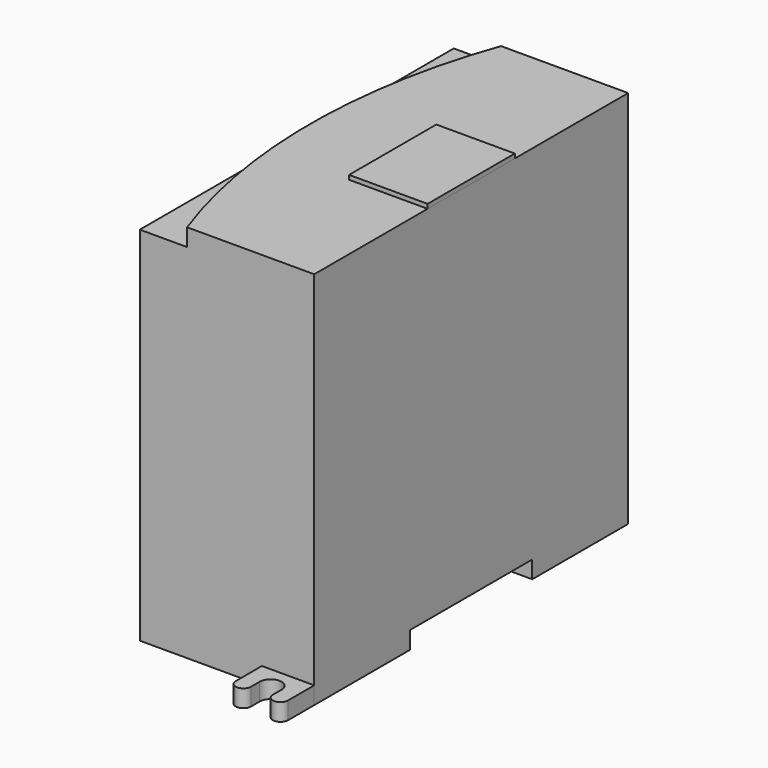
from build123d import *

# Parameters (mm, degrees)
F1_DEPTH = 87
F0_R     = 2.5
F2_DEPTH = 4
F4_DEPTH = 4
F5_W     = 18
F5_H     = 25
F6_DEPTH = 1
F7_W     = 35
F7_H     = 4
F8_DEPTH = 40.001


with BuildPart() as f1:
    # F0 (on Top) → F1 (new body)
    with BuildSketch(Plane.XY):
        Polygon((20, -45), (20, 45), (-8, 45), (-20, 45), (-20, -45), (8, -45), align=None)
    extrude(amount=F1_DEPTH)

    # F3 (on face) → F4 (cut)
    with BuildSketch(Plane.XY.offset(87)):
        Polygon((-20, 45), (-9.158122, 45), (-9.158122, 62.903538), (-46.149671, 62.903538), (-46.149671, -56.387458), (-9.158122, -56.387458), (-9.158122, -45), (-20, -45), align=None)
        with BuildLine():
            ThreePointArc((-9.158122, -45), (-16.998211, 0), (-9.158122, 45))
            Line((-9.158122, 45), (-20, 45))
            Line((-20, 45), (-20, -45))
            Line((-20, -45), (-9.158122, -45))
        make_face()
    extrude(amount=-F4_DEPTH, mode=Mode.SUBTRACT)

    # F7 (on face) → F8 (cut, through all)
    with BuildSketch(Plane.YZ.offset(20)):
        with Locations((0, 2)):
            Rectangle(F7_W, F7_H)
    extrude(amount=-F8_DEPTH, mode=Mode.SUBTRACT)


with BuildPart() as f2:
    # F0 (on Top) → F2 (new body)
    with BuildSketch(Plane.XY):
        with BuildLine():
            Line((-20, 45), (-8, 45))
            Line((-8, 45), (-8, 51))
            ThreePointArc((-8, 51), (-14, 57), (-20, 51))
            Line((-20, 51), (-20, 45))
        make_face()
        with Locations((-14, 51)):
            Circle(F0_R, mode=Mode.SUBTRACT)
        with BuildLine():
            Line((20, -52.5), (20, -45))
            Line((20, -45), (8, -45))
            Line((8, -45), (8, -52.5))
            ThreePointArc((8, -52.5), (9.75, -54.25), (11.5, -52.5))
            Line((11.5, -52.5), (11.5, -50))
            ThreePointArc((11.5, -50), (14, -47.5), (16.5, -50))
            Line((16.5, -50), (16.5, -52.5))
            ThreePointArc((16.5, -52.5), (18.25, -54.25), (20, -52.5))
        make_face()
    extrude(amount=F2_DEPTH)


with BuildPart() as f6:
    # F5 (on face) → F6 (new body)
    with BuildSketch(Plane.XY.offset(87)):
        with Locations((11, 0)):
            Rectangle(F5_W, F5_H)
    extrude(amount=F6_DEPTH)


solid = Compound([f1.part, f2.part, f6.part])
